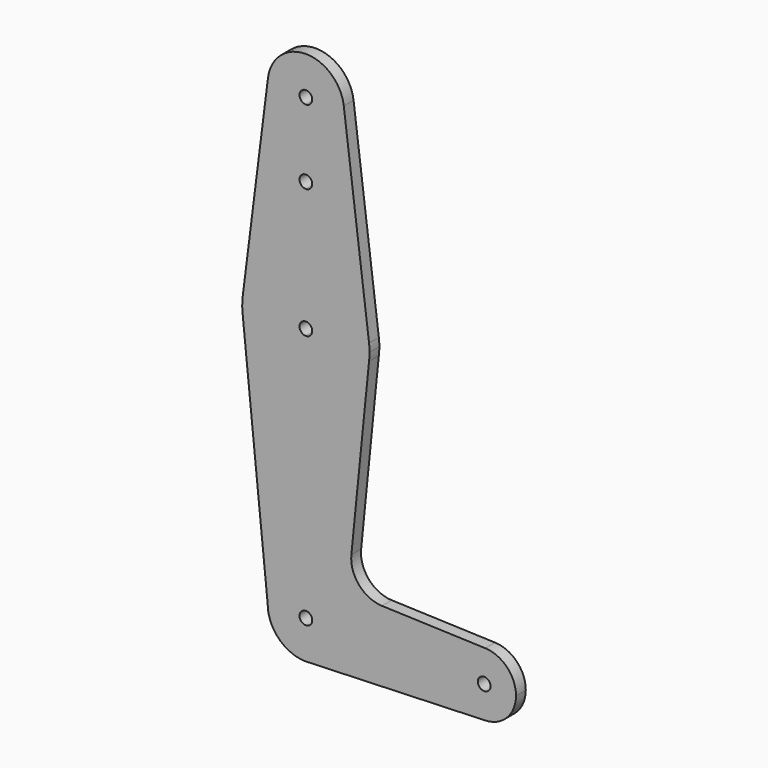
from build123d import *

# Parameters (mm, degrees)
F1_DEPTH = 3.048


with BuildPart() as f1:
    # F0 (on Front) → F1 (new body)
    with BuildSketch(Plane.XZ):
        with BuildLine():
            ThreePointArc((1.5875, 0), (-1.1225320151, -1.1225320151), (0, 1.5875))
            Line((0, 1.5875), (0, 9.525))
            ThreePointArc((0, 9.525), (-6.7351920908, 6.7351920908), (-9.525, 0))
            ThreePointArc((-9.525, 0), (-6.7351920908, -6.7351920908), (0, -9.525))
            Line((0, -9.525), (0.6773435479, -9.500885786))
            ThreePointArc((0.6773435479, -9.500885786), (6.9705567315, -6.4912990883), (9.525, 0))
            Line((9.525, 0), (1.5875, 0))
        make_face()
        with BuildLine():
            ThreePointArc((-9.525, 0), (-6.7351920908, 6.7351920908), (0, 9.525))
            Line((0, 9.525), (0, 47.625))
            ThreePointArc((0, 47.625), (-10.644756084, 51.722700101), (-15.7942028036, 61.9003804205))
            Line((-15.7942028036, 61.9003804205), (-9.525, 0))
        make_face()
        with BuildLine():
            Line((0, 47.625), (0, 9.525))
            ThreePointArc((0, 9.525), (6.7351920908, 6.7351920908), (9.525, 0))
            Line((9.525, 0), (36.5125, 0))
            ThreePointArc((36.5125, 0), (38.9380895153, 5.7116327839), (44.7324052746, 7.9324746146))
            Line((44.7324052746, 7.9324746146), (18.966834309, 8.849758753))
            ThreePointArc((18.966834309, 8.849758753), (13.2599196073, 11.5672763786), (11.3392787081, 17.5893122465))
            Line((11.3392787081, 17.5893122465), (15.7504882737, 61.515625))
            ThreePointArc((15.7504882737, 61.515625), (10.5003255158, 51.59375), (0, 47.625))
        make_face()
        with BuildLine():
            Line((36.5125, 0), (9.525, 0))
            ThreePointArc((9.525, 0), (6.9705567315, -6.4912990883), (0.6773435479, -9.500885786))
            Line((0.6773435479, -9.500885786), (44.7324052746, -7.9324746146))
            ThreePointArc((44.7324052746, -7.9324746146), (38.9380895153, -5.7116327839), (36.5125, 0))
        make_face()
        with BuildLine():
            ThreePointArc((-15.7942028036, 61.9003804205), (-10.644756084, 51.722700101), (0, 47.625))
            Line((0, 47.625), (0, 61.9125))
            ThreePointArc((0, 61.9125), (-1.5875, 63.5), (0, 65.0875))
            Line((0, 65.0875), (0, 79.375))
            ThreePointArc((0, 79.375), (-10.5003255158, 75.40625), (-15.7504882737, 65.484375))
            ThreePointArc((-15.7504882737, 65.484375), (-15.8738192656, 63.6936154008), (-15.7942028036, 61.9003804205))
        make_face()
        with BuildLine():
            Line((0, 61.9125), (0, 47.625))
            ThreePointArc((0, 47.625), (10.5003255158, 51.59375), (15.7504882737, 61.515625))
            ThreePointArc((15.7504882737, 61.515625), (15.8438414904, 62.5058612634), (15.875, 63.5))
            ThreePointArc((15.875, 63.5), (15.8438414904, 64.4941387366), (15.7504882737, 65.484375))
            ThreePointArc((15.7504882737, 65.484375), (10.5003255158, 75.40625), (0, 79.375))
            Line((0, 79.375), (0, 65.0875))
            ThreePointArc((0, 65.0875), (1.1225320151, 64.6225320151), (1.5875, 63.5))
            ThreePointArc((1.5875, 63.5), (1.1225320151, 62.3774679849), (0, 61.9125))
        make_face()
        with BuildLine():
            ThreePointArc((44.7324052746, 7.9324746146), (38.9380895153, 5.7116327839), (36.5125, 0))
            ThreePointArc((36.5125, 0), (38.9380895153, -5.7116327839), (44.7324052746, -7.9324746146))
            ThreePointArc((44.7324052746, -7.9324746146), (50.1616327839, -5.5119104847), (52.3875, 0))
            ThreePointArc((52.3875, 0), (50.1616327839, 5.5119104847), (44.7324052746, 7.9324746146))
        make_face()
        with BuildLine():
            ThreePointArc((46.0375, 0), (44.45, -1.5875), (42.8625, 0))
            ThreePointArc((42.8625, 0), (44.45, 1.5875), (46.0375, 0))
        make_face(mode=Mode.SUBTRACT)
        with BuildLine():
            ThreePointArc((0, -9.525), (0.3388863295, -9.5189695375), (0.6773435479, -9.500885786))
            Line((0.6773435479, -9.500885786), (0, -9.525))
        make_face()
        with BuildLine():
            Line((-9.4502929642, 115.490625), (-15.7504882737, 65.484375))
            ThreePointArc((-15.7504882737, 65.484375), (-10.5003255158, 75.40625), (0, 79.375))
            Line((0, 79.375), (0, 94.173076427))
            ThreePointArc((0, 94.173076427), (-1.5875, 95.760576427), (0, 97.348076427))
            Line((0, 97.348076427), (0, 104.775))
            ThreePointArc((0, 104.775), (-7.14375, 107.9998046905), (-9.4502929642, 115.490625))
        make_face()
        with BuildLine():
            Line((0, 94.173076427), (0, 79.375))
            ThreePointArc((0, 79.375), (10.5003255158, 75.40625), (15.7504882737, 65.484375))
            Line((15.7504882737, 65.484375), (9.4502929642, 115.490625))
            ThreePointArc((9.4502929642, 115.490625), (9.5063048942, 114.896483242), (9.525, 114.3))
            ThreePointArc((9.525, 114.3), (6.7351920908, 107.5648079092), (0, 104.775))
            Line((0, 104.775), (0, 97.348076427))
            ThreePointArc((0, 97.348076427), (1.1225320151, 96.8831084421), (1.5875, 95.760576427))
            ThreePointArc((1.5875, 95.760576427), (1.1225320151, 94.6380444118), (0, 94.173076427))
        make_face()
        with BuildLine():
            ThreePointArc((9.4502929642, 115.490625), (0, 123.825), (-9.4502929642, 115.490625))
            ThreePointArc((-9.4502929642, 115.490625), (-7.14375, 107.9998046905), (0, 104.775))
            ThreePointArc((0, 104.775), (6.7351920908, 107.5648079092), (9.525, 114.3))
            ThreePointArc((9.525, 114.3), (9.5063048942, 114.896483242), (9.4502929642, 115.490625))
        make_face()
        with BuildLine():
            ThreePointArc((1.5875, 114.3), (1.1225320151, 113.1774679849), (0, 112.7125))
            ThreePointArc((0, 112.7125), (-1.1225320151, 115.4225320151), (1.5875, 114.3))
        make_face(mode=Mode.SUBTRACT)
        with BuildLine():
            Line((0, 9.525), (0, 1.5875))
            ThreePointArc((0, 1.5875), (1.1225320151, 1.1225320151), (1.5875, 0))
            Line((1.5875, 0), (9.525, 0))
            ThreePointArc((9.525, 0), (6.7351920908, 6.7351920908), (0, 9.525))
        make_face()
    extrude(amount=F1_DEPTH)


solid = f1.part
